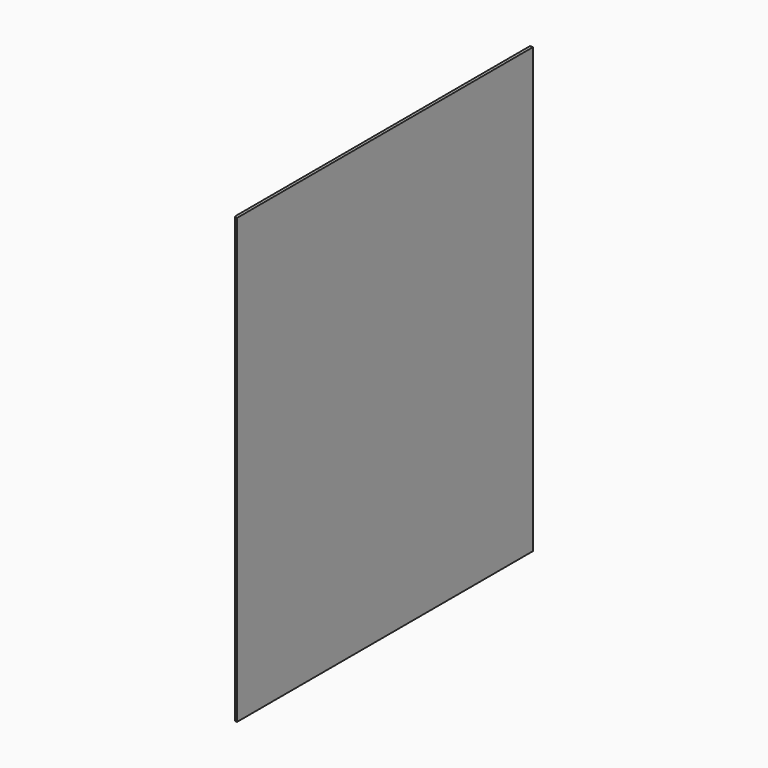
from build123d import *

# Parameters (mm, degrees)
F0_W     = 254
F0_H     = 304.8
F1_DEPTH = 2
F2_R     = 1.27


with BuildPart() as f1:
    # F0 (on Right) → F1 (new body)
    with BuildSketch(Plane.YZ):
        with Locations((127, 152.4)):
            Rectangle(F0_W, F0_H)
    extrude(amount=F1_DEPTH)

    # F2
    f2_edges = [f1.edges().sort_by_distance(p)[0] for p in [
        (0, 0, 152.4),
    ]]
    fillet(f2_edges, radius=F2_R)


solid = f1.part
